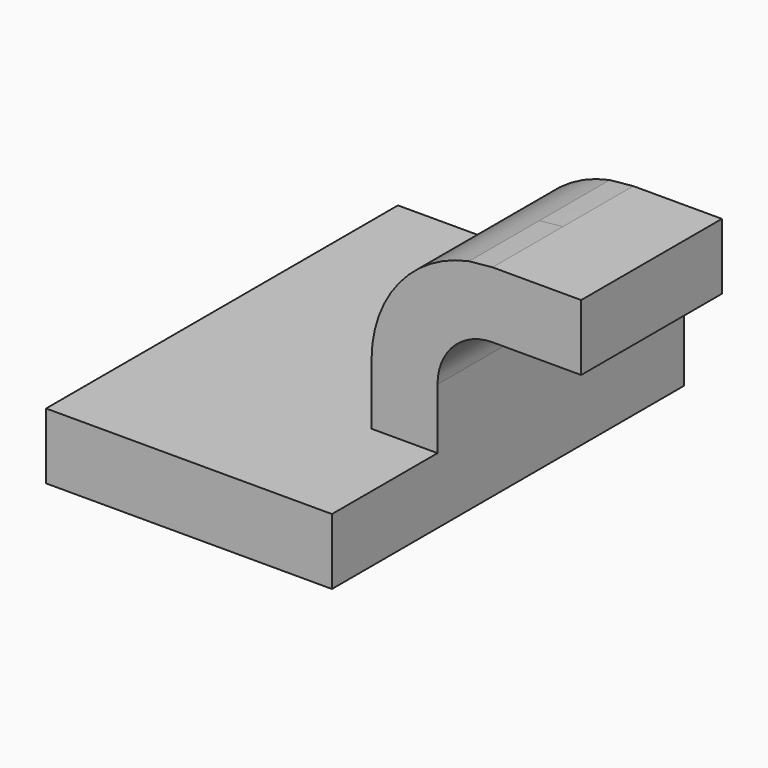
from build123d import *

# Parameters (mm, degrees)
F1_DEPTH = 63.5
F0_W     = 22.4290422591
F0_H     = 19.05
F2_DEPTH = 25.4


with BuildPart() as f1:
    # F0 (on Front) → F1 (new body, symmetric)
    with BuildSketch(Plane.XZ):
        Polygon((34.1466036677, 9.1673688769), (-29.3533963323, 9.1673688769), (-29.3533963323, -9.8826311231), (53.1966036677, -9.8826311231), (53.1966036677, 9.1673688769), align=None)
    extrude(amount=F1_DEPTH, both=True)

    # F0 (on Front) → F2 (join, symmetric)
    with BuildSketch(Plane.XZ):
        with BuildLine():
            Line((34.1466036677, 26.6425688769), (34.1466036677, 9.1673688769))
            Line((34.1466036677, 9.1673688769), (53.1966036677, 9.1673688769))
            Line((53.1966036677, 9.1673688769), (53.1966036677, 26.6425688769))
            ThreePointArc((53.1966036677, 26.6425688769), (57.8462835164, 37.8678890283), (69.0716036677, 42.5175688769))
            Line((69.0716036677, 42.5175688769), (72.2466036677, 42.5175688769))
            Line((72.2466036677, 42.5175688769), (72.2466036677, 61.5675688769))
            Line((72.2466036677, 61.5675688769), (69.0716036677, 61.5675688769))
            add(Edge.make_bspline(
                [(62.2864537846, 60.9021276316), (64.4854418913, 61.1371888729), (66.7463777073, 61.3590197179), (69.0716036677, 61.5675688769)],
                knots=[107.750848274, 107.750848274, 107.750848274, 107.750848274, 111.5045361635, 111.5045361635, 111.5045361635, 111.5045361635], degree=3))
            ThreePointArc((62.2864537846, 60.9021276316), (42.0833934208, 48.8099352669), (34.1466036677, 26.6425688769))
        make_face()
        with Locations((83.4611247973, 52.0425688769)):
            Rectangle(F0_W, F0_H)
    extrude(amount=F2_DEPTH, both=True)


solid = f1.part
